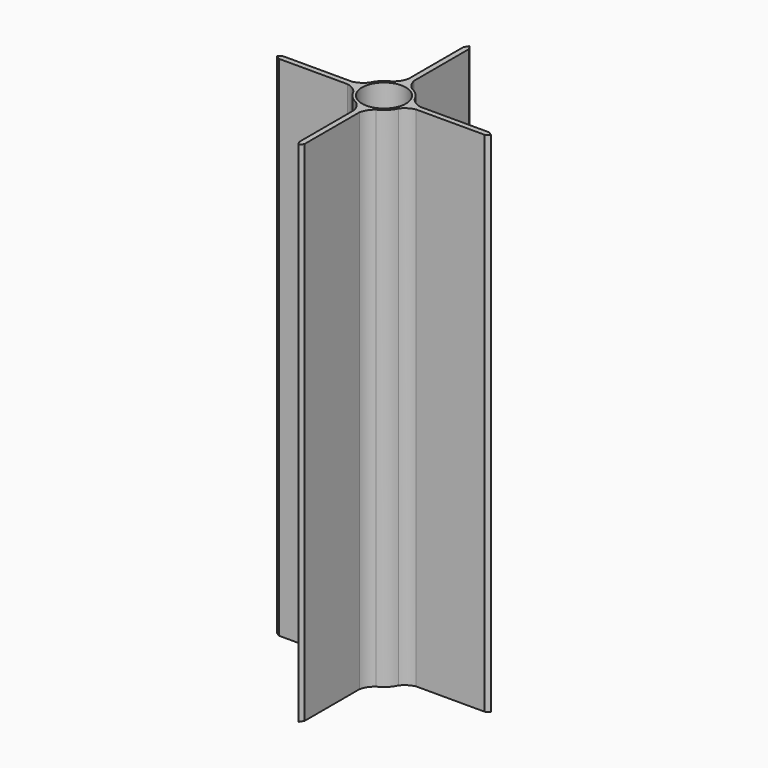
from build123d import *

# Parameters (mm, degrees)
F0_R     = 8
F1_DEPTH = 185
F5_R     = 2
F6_DEPTH = 100


with BuildPart() as f1:
    # F0 (on Top) → F1 (new body)
    with BuildSketch(Plane.XY):
        with BuildLine():
            Line((-1, 37.4594671652), (-1, 12.4594671652))
            ThreePointArc((-1, 12.4594671652), (-1.9508662737, 10.095434036), (-3.6722679744, 8.2167175882))
            ThreePointArc((-3.6722679744, 8.2167175882), (-6.3639610307, 6.3639610307), (-8.2167175882, 3.6722679744))
            ThreePointArc((-8.2167175882, 3.6722679744), (-10.095434036, 1.9508662737), (-12.4594671652, 1))
            Line((-12.4594671652, 1), (-37.4594671652, 1))
            Line((-37.4594671652, 1), (-39, 0))
            Line((-39, 0), (-37.4594671652, -1))
            Line((-37.4594671652, -1), (-12.4594671652, -1))
            ThreePointArc((-12.4594671652, -1), (-10.095434036, -1.9508662737), (-8.2167175882, -3.6722679744))
            ThreePointArc((-8.2167175882, -3.6722679744), (-6.3639610307, -6.3639610307), (-3.6722679744, -8.2167175882))
            ThreePointArc((-3.6722679744, -8.2167175882), (-1.9508662737, -10.095434036), (-1, -12.4594671652))
            Line((-1, -12.4594671652), (-1, -37.4594671652))
            Line((-1, -37.4594671652), (0, -39))
            Line((0, -39), (1, -37.4594671652))
            Line((1, -37.4594671652), (1, -12.4594671652))
            ThreePointArc((1, -12.4594671652), (1.9508662737, -10.095434036), (3.6722679744, -8.2167175882))
            ThreePointArc((3.6722679744, -8.2167175882), (6.3639610307, -6.3639610307), (8.2167175882, -3.6722679744))
            ThreePointArc((8.2167175882, -3.6722679744), (10.095434036, -1.9508662737), (12.4594671652, -1))
            Line((12.4594671652, -1), (37.4594671652, -1))
            Line((37.4594671652, -1), (39, 0))
            Line((39, 0), (37.4594671652, 1))
            Line((37.4594671652, 1), (12.4594671652, 1))
            ThreePointArc((12.4594671652, 1), (10.095434036, 1.9508662737), (8.2167175882, 3.6722679744))
            ThreePointArc((8.2167175882, 3.6722679744), (6.3639610307, 6.3639610307), (3.6722679744, 8.2167175882))
            ThreePointArc((3.6722679744, 8.2167175882), (1.9508662737, 10.095434036), (1, 12.4594671652))
            Line((1, 12.4594671652), (1, 37.4594671652))
            Line((1, 37.4594671652), (0, 39))
            Line((0, 39), (-1, 37.4594671652))
        make_face()
        Circle(F0_R, mode=Mode.SUBTRACT)
    extrude(amount=F1_DEPTH)

    # F5 (on offset) → F6 (cut)
    with BuildSketch(Plane(origin=(-6.3639610307, -6.3639610307, 0), x_dir=(0.7071067812, -0.7071067812, 0), z_dir=(-0.7071067812, -0.7071067812, 0))):
        with Locations((0, 17.5)):
            Circle(F5_R)
        with Locations((0, 67.5)):
            Circle(F5_R)
        with Locations((0, 117.5)):
            Circle(F5_R)
        with Locations((0, 167.5)):
            Circle(F5_R)
    extrude(amount=-F6_DEPTH, mode=Mode.SUBTRACT)


solid = f1.part
